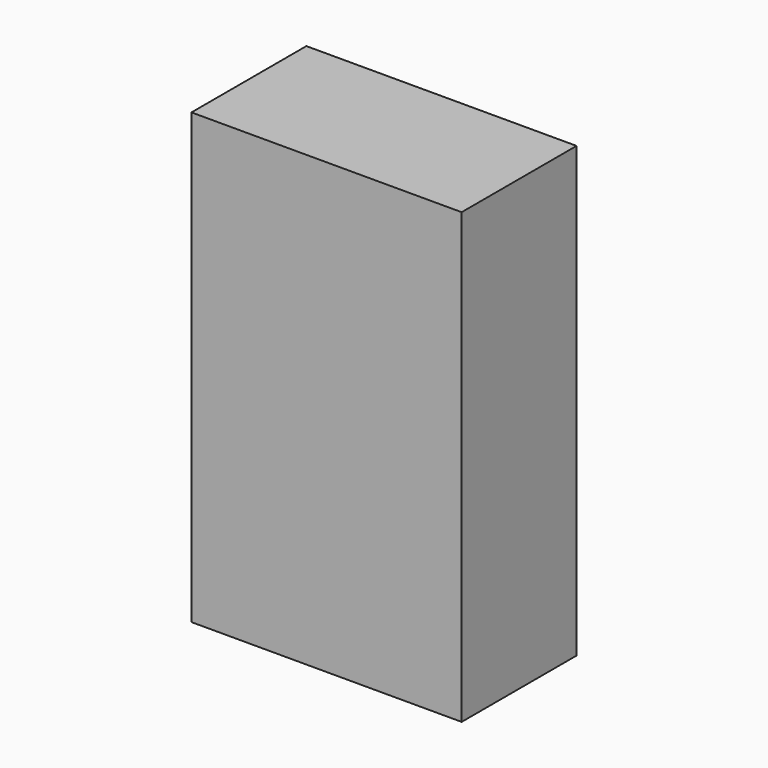
from build123d import *

# Parameters (mm, degrees)
F0_W     = 76.46276
F0_H     = 127
F2_DEPTH = 40.64
F1_W     = 25.4
F1_H     = 25.4
F1_W_2   = 25.226503
F3_DEPTH = 38.1
F4_R     = 5.08


with BuildPart() as f2:
    # F0 (on Front) → F2 (new body)
    with BuildSketch(Plane.XZ):
        Rectangle(F0_W, F0_H)
    extrude(amount=F2_DEPTH)

    # F1 (on face) → F3 (cut)
    with BuildSketch(Plane.XZ):
        with Locations((-17.70053, 38.1)):
            Rectangle(F1_W, F1_H)
        with Locations((19.007883, 38.1)):
            Rectangle(F1_W, F1_H)
        with Locations((17.666091, 0)):
            Rectangle(F1_W, F1_H)
        with Locations((-17.890041, 0)):
            Rectangle(F1_W, F1_H)
        with Locations((-17.206696, -38.1)):
            Rectangle(F1_W, F1_H)
        with Locations((19.094631, -38.1)):
            Rectangle(F1_W_2, F1_H)
    extrude(amount=F3_DEPTH, mode=Mode.SUBTRACT)

    # F4
    f4_edges = [f2.edges().sort_by_distance(p)[0] for p in [
        (6.307883, -19.05, 25.4),
        (31.707883, -19.05, 25.4),
    ]]
    fillet(f4_edges, radius=F4_R)


solid = f2.part
